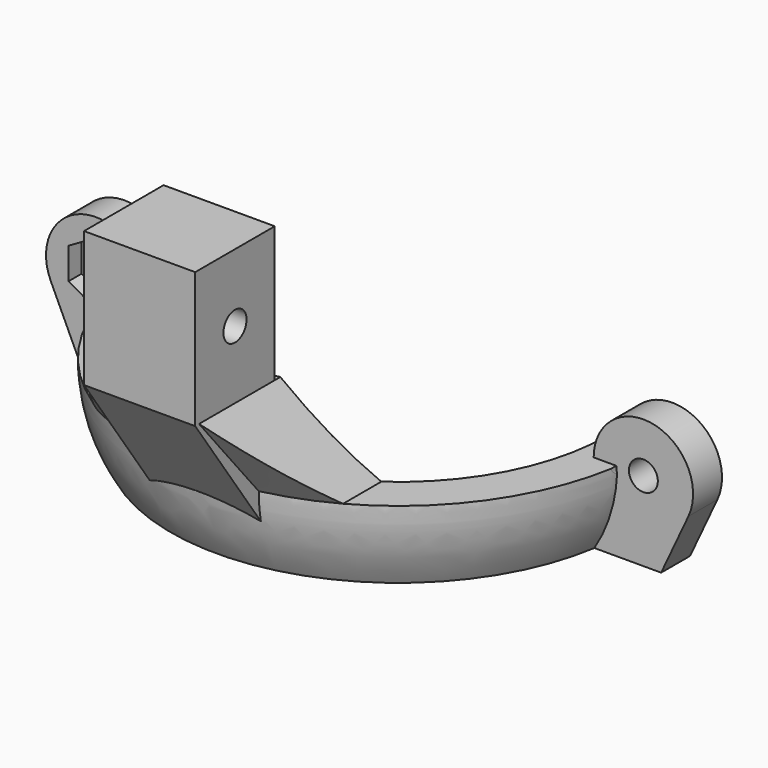
from build123d import *

# Parameters (mm, degrees)
SKETCH005_R          = 1.6
PAD001_DEPTH         = 6.15
REVOLUTION_ANGLE     = -180
PAD_DEPTH            = 4
SKETCH002_R          = 1.6
POCKET_DEPTH         = 5
POCKET001_DEPTH      = 1.8
SKETCH004_R          = 3
POCKET002_DEPTH      = 2
REVOLUTION001_ANGLE  = 70
POCKET003_DEPTH      = 184.719613
POCKET003_DEPTH_BACK = 198.519612


with BuildPart() as pad001:
    # Sketch005 → Pad001 (new body, symmetric)
    with BuildSketch(Plane.YZ):
        Polygon((-35.8, 27.909628), (-24.8, 27.909628), (-24.8, -2.8), (-35.8, 12.909628), align=None)
        with Locations((-30.3, 20.409628)):
            Circle(SKETCH005_R, mode=Mode.SUBTRACT)
    extrude(amount=PAD001_DEPTH, both=True)


with BuildPart() as obj1:
    # Sketch → Revolution (revolve)
    with BuildSketch(Plane.XZ):
        with BuildLine():
            Line((23.2, 0), (24.8, 0))
            Line((24.8, 0), (24.8, -2.8))
            Line((24.8, -2.8), (23.2, -2.8))
            Line((23.2, -2.8), (23.2, -5.8))
            Line((23.2, -5.8), (25.2, -5.8))
            ThreePointArc((25.2, -5.8), (27.062874, -1.574112), (27.7, 3))
            Line((27.7, 3), (23.2, 3))
            Line((23.2, 0), (23.2, 3))
        make_face()
    revolve(axis=Axis((0, 0, 0), (0, 0, 1)), revolution_arc=REVOLUTION_ANGLE)

    # Sketch001 → Pad (new body)
    with BuildSketch(Plane(origin=(0, 0, 0), x_dir=(1, 0, 0), z_dir=(0, 1, 0))):
        with BuildLine():
            ThreePointArc((24.8, -3), (31.490407, -8.36963), (35.284703, -0.67562))
            Line((32.265071, 5.8), (35.284703, -0.67562))
            Line((24.8, 5.8), (32.265071, 5.8))
            Line((24.8, -3), (24.8, 5.8))
        make_face()
    pad = extrude(amount=-PAD_DEPTH)

    # Mirrored: Pad across Sketch001 V_Axis
    add(pad.mirror(Plane.YZ))

    # Sketch002 → Pocket (cut)
    with BuildSketch(Plane(origin=(0, 0, 0), x_dir=(1, 0, 0), z_dir=(0, 1, 0))):
        with Locations((-30.3, -3)):
            Circle(SKETCH002_R)
    pocket = extrude(amount=-POCKET_DEPTH, mode=Mode.SUBTRACT)

    # Mirrored001: Pocket across Sketch002 V_Axis
    add(pocket.mirror(Plane.YZ), mode=Mode.SUBTRACT)

    # Sketch003 → Pocket001 (cut)
    with BuildSketch(Plane.XZ.offset(4)):
        Polygon((-30.3, 6.464101), (-33.3, 4.73205), (-33.3, 1.267949), (-30.3, -0.464102), (-27.3, 1.267949), (-27.3, 4.73205), align=None)
    extrude(amount=-POCKET001_DEPTH, mode=Mode.SUBTRACT)

    # Sketch004 → Pocket002 (cut)
    with BuildSketch(Plane.XZ.offset(4)):
        with Locations((30.3, 3)):
            Circle(SKETCH004_R)
    extrude(amount=POCKET002_DEPTH, mode=Mode.SUBTRACT)

    # Fusion: union Pad001
    add(pad001.part)


with BuildPart() as mount_part:
    # Sketch006 → Revolution001 (revolve, symmetric)
    with BuildSketch(Plane.YZ) as revolution001_sk:
        Polygon((-23.2, 3), (-27.7, 3), (-35.8, 12.909628), (-24.8, 12.909628), align=None)
    revolve(axis=Axis((0, 0, 0), (0, 0, 1)), revolution_arc=REVOLUTION001_ANGLE / 2)
    revolve(revolution001_sk.sketch, axis=Axis((0, 0, 0), (0, 0, -1)), revolution_arc=REVOLUTION001_ANGLE / 2)

    # Fusion001: union obj1
    add(obj1.part)

    # Sketch007 → Pocket003 (cut, two sides)
    with BuildSketch(Plane(origin=(0, -24.8, 0), x_dir=(-1, 0, 0), z_dir=(0, 1, 0))) as pocket003_sk:
        Polygon((-15.888067, 3), (-13.306973, 3), (-6.15, 12.909628), (-29.113317, 25.73584), align=None)
    pocket003 = extrude(amount=-POCKET003_DEPTH, mode=Mode.SUBTRACT) + extrude(pocket003_sk.sketch, amount=POCKET003_DEPTH_BACK, mode=Mode.SUBTRACT)

    # Mirrored002: Pocket003 across Sketch007 V_Axis
    add(pocket003.mirror(Plane(origin=(0, -24.8, 0), x_dir=(0, 1, 0), z_dir=(-1, 0, 0))), mode=Mode.SUBTRACT)


solid = mount_part.part
